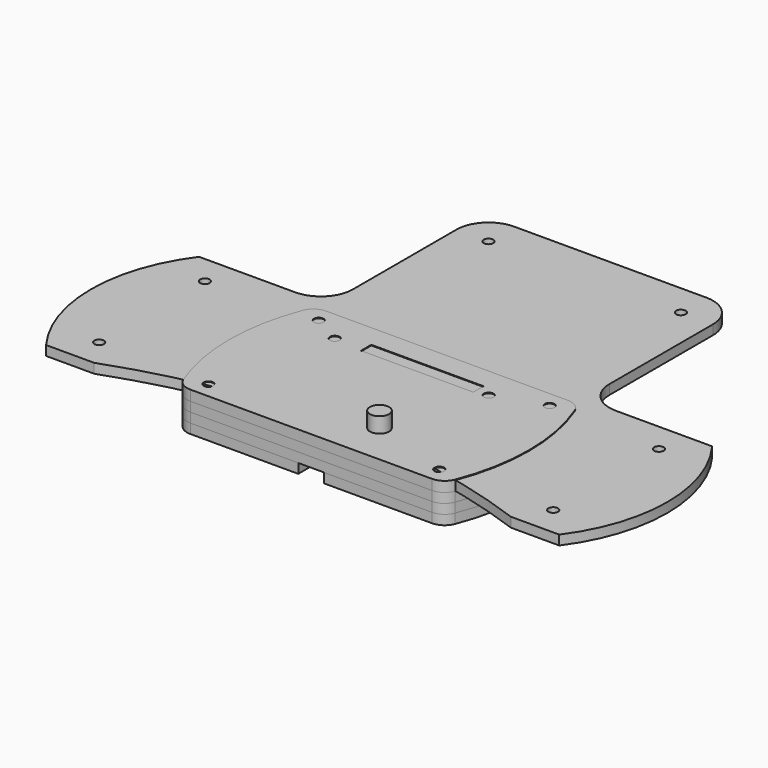
from build123d import *

# Parameters (mm, degrees)
F0_R      = 1.5
F2_DEPTH  = 3
F1_R      = 1.5
F1_R_2    = 13.5
F1_R_3    = 3
F1_W      = 35
F1_H      = 4
F3_DEPTH  = 3
F4_R      = 1.5
F5_DEPTH  = 3
F6_R      = 1
F7_DEPTH  = 3
F8_R      = 3
F9_DEPTH  = 5
F10_DEPTH = 3.2
F4_W      = 8
F4_H      = 7
F11_DEPTH = 3
F5_FACE_R = 1.5


with BuildPart() as f2:
    # F0 (on Top) → F2 (new body)
    with BuildSketch(Plane.XY):
        with BuildLine():
            Line((64.9980898542, -29.8131414131), (80.0411657598, -29.8131414131))
            ThreePointArc((80.0411657598, -29.8131414131), (89.9017014001, 0), (80.0411657598, 29.8131414131))
            Line((80.0411657598, 29.8131414131), (50, 29.8131414131))
            ThreePointArc((50, 29.8131414131), (42.9289321881, 32.7420736012), (40, 39.8131414131))
            Line((40, 39.8131414131), (40, 80.1868585869))
            ThreePointArc((40, 80.1868585869), (37.0710678119, 87.2579263988), (30, 90.1868585869))
            Line((30, 90.1868585869), (-30, 90.1868585869))
            ThreePointArc((-30, 90.1868585869), (-37.0710678119, 87.2579263988), (-40, 80.1868585869))
            Line((-40, 80.1868585869), (-40, 39.8131414131))
            ThreePointArc((-40, 39.8131414131), (-42.9289321881, 32.7420736012), (-50, 29.8131414131))
            Line((-50, 29.8131414131), (-79.9980898542, 29.8131414131))
            ThreePointArc((-79.9980898542, 29.8131414131), (-89.8605356655, 0.0006317704), (-80.0019101458, -29.8131414131))
            Line((-80.0019101458, -29.8131414131), (-65.0019101458, -29.8131414131))
            ThreePointArc((-65.0019101458, -29.8131414131), (-0.0019101458, -18.3488521267), (64.9980898542, -29.8131414131))
        make_face()
        with Locations((-70.8030402511, -20.6298897034)):
            Circle(F0_R, mode=Mode.SUBTRACT)
        with Locations((-0.0019101458, -13.3488521267)):
            Circle(F0_R, mode=Mode.SUBTRACT)
        with Locations((-70.8057016988, 20.6207532577)):
            Circle(F0_R, mode=Mode.SUBTRACT)
        with Locations((70.8083619675, -20.6116164686)):
            Circle(F0_R, mode=Mode.SUBTRACT)
        with Locations((70.8057016988, 20.6207532577)):
            Circle(F0_R, mode=Mode.SUBTRACT)
        with Locations((-30, 80.1868585869)):
            Circle(F0_R, mode=Mode.SUBTRACT)
        with Locations((30, 80.1868585869)):
            Circle(F0_R, mode=Mode.SUBTRACT)
    extrude(amount=F2_DEPTH)


with BuildPart() as f3:
    # F1 (on Top) → F3 (new body)
    with BuildSketch(Plane.XY):
        with BuildLine():
            ThreePointArc((42.3419063366, 23.3182777927), (40.5045767463, 25.6286431769), (37.6842389087, 26.5))
            Line((37.6842389087, 26.5), (-37.6842389087, 26.5))
            ThreePointArc((-37.6842389087, 26.5), (-40.5045767463, 25.6286431769), (-42.3419063366, 23.3182777927))
            ThreePointArc((-42.3419063366, 23.3182777927), (-46.7321079036, 0), (-42.3419063366, -23.3182777927))
            ThreePointArc((-42.3419063366, -23.3182777927), (-40.5045767463, -25.6286431769), (-37.6842389087, -26.5))
            Line((-37.6842389087, -26.5), (37.6842389087, -26.5))
            ThreePointArc((37.6842389087, -26.5), (40.5045767463, -25.6286431769), (42.3419063366, -23.3182777927))
            ThreePointArc((42.3419063366, -23.3182777927), (46.7321079036, 0), (42.3419063366, 23.3182777927))
        make_face()
        with Locations((-36, -21.5)):
            Circle(F1_R, mode=Mode.SUBTRACT)
        with Locations((-17.59, -5.99)):
            Circle(F1_R_2, mode=Mode.SUBTRACT)
        with Locations((10.9859009874, -13.5525093543)):
            Circle(F1_R_3, mode=Mode.SUBTRACT)
        with Locations((36, -21.5)):
            Circle(F1_R, mode=Mode.SUBTRACT)
        with Locations((4.8359009874, -7.4025093543)):
            Circle(F1_R_3, mode=Mode.SUBTRACT)
        with Locations((17.1359009874, -7.4025093543)):
            Circle(F1_R_3, mode=Mode.SUBTRACT)
        with Locations((10.9859009874, -1.2525093543)):
            Circle(F1_R_3, mode=Mode.SUBTRACT)
        with Locations((25.228589891, -7.4025093543)):
            Circle(F1_R_3, mode=Mode.SUBTRACT)
        with Locations((-27, 16.5)):
            Circle(F1_R, mode=Mode.SUBTRACT)
        with Locations((-36, 21.5)):
            Circle(F1_R, mode=Mode.SUBTRACT)
        with Locations((-0.5, 17.4855577275)):
            Rectangle(F1_W, F1_H, mode=Mode.SUBTRACT)
        with Locations((21, 16.5)):
            Circle(F1_R, mode=Mode.SUBTRACT)
        with Locations((36, 21.5)):
            Circle(F1_R, mode=Mode.SUBTRACT)
    extrude(amount=-F3_DEPTH)


with BuildPart() as f5:
    # F4 (on face) → F5 (new body)
    with BuildSketch(Plane(origin=(0, 0, -3), x_dir=(1, 0, 0), z_dir=(0, 0, -1))):
        with BuildLine():
            ThreePointArc((-42.3419063366, -23.3182777927), (-40.5045767463, -25.6286431769), (-37.6842389087, -26.5))
            Line((-37.6842389087, -26.5), (37.6842389087, -26.5))
            ThreePointArc((37.6842389087, -26.5), (40.5045767463, -25.6286431769), (42.3419063366, -23.3182777927))
            ThreePointArc((42.3419063366, -23.3182777927), (46.7321079036, 0), (42.3419063366, 23.3182777927))
            ThreePointArc((42.3419063366, 23.3182777927), (40.5045767463, 25.6286431769), (37.6842389087, 26.5))
            Line((37.6842389087, 26.5), (4, 26.5))
            Line((4, 26.5), (4, 19.5))
            Line((4, 19.5), (32.6745901926, 19.5))
            ThreePointArc((32.6745901926, 19.5), (35.6783500991, 18.4971773071), (37.4772145662, 15.8909705698))
            ThreePointArc((37.4772145662, 15.8909705698), (39.7321079036, 0), (37.4772145662, -15.8909705698))
            ThreePointArc((37.4772145662, -15.8909705698), (35.6783500991, -18.4971773071), (32.6745901926, -19.5))
            Line((32.6745901926, -19.5), (-32.6745901926, -19.5))
            ThreePointArc((-32.6745901926, -19.5), (-35.6783500991, -18.4971773071), (-37.4772145662, -15.8909705698))
            ThreePointArc((-37.4772145662, -15.8909705698), (-39.7321079036, 0), (-37.4772145662, 15.8909705698))
            ThreePointArc((-37.4772145662, 15.8909705698), (-35.6783500991, 18.4971773071), (-32.6745901926, 19.5))
            Line((-32.6745901926, 19.5), (-4, 19.5))
            Line((-4, 19.5), (-4, 26.5))
            Line((-4, 26.5), (-37.6842389087, 26.5))
            ThreePointArc((-37.6842389087, 26.5), (-40.5045767463, 25.6286431769), (-42.3419063366, 23.3182777927))
            ThreePointArc((-42.3419063366, 23.3182777927), (-46.7321079036, 0), (-42.3419063366, -23.3182777927))
        make_face()
        with Locations((-36, -21.5)):
            Circle(F4_R, mode=Mode.SUBTRACT)
        with Locations((36, -21.5)):
            Circle(F4_R, mode=Mode.SUBTRACT)
        with Locations((-36, 21.5)):
            Circle(F4_R, mode=Mode.SUBTRACT)
        with Locations((36, 21.5)):
            Circle(F4_R, mode=Mode.SUBTRACT)
    extrude(amount=F5_DEPTH)


with BuildPart() as f7:
    # F6 (on face) → F7 (new body)
    with BuildSketch(Plane.XY):
        with BuildLine():
            Line((11.9859009874, -6.79401664), (11.9859009874, -4.080936479))
            ThreePointArc((11.9859009874, -4.080936479), (10.9859009874, 1.7474906457), (9.9859009874, -4.080936479))
            Line((9.9859009874, -4.080936479), (9.9859009874, -6.79401664))
            Line((9.9859009874, -6.79401664), (8.7716779385, -6.79401664))
            ThreePointArc((8.7716779385, -6.79401664), (0.8533636565, -7.4025093543), (8.7716779385, -8.0110020686))
            Line((8.7716779385, -8.0110020686), (9.9859009874, -8.0110020686))
            Line((9.9859009874, -8.0110020686), (9.9859009874, -10.7240822295))
            ThreePointArc((9.9859009874, -10.7240822295), (10.9859009874, -16.5525093543), (11.9859009874, -10.7240822295))
            Line((11.9859009874, -10.7240822295), (11.9859009874, -8.0110020686))
            Line((11.9859009874, -8.0110020686), (15.4148236891, -8.0110020686))
            ThreePointArc((15.4148236891, -8.0110020686), (16.9174619366, -9.2148710266), (18.6631110091, -8.4025093543))
            Line((18.6631110091, -8.4025093543), (21.9029071741, -8.4025093543))
            ThreePointArc((21.9029071741, -8.4025093543), (28.7013647949, -7.4025093543), (21.9029071741, -6.4025093543))
            Line((21.9029071741, -6.4025093543), (18.6631110091, -6.4025093543))
            ThreePointArc((18.6631110091, -6.4025093543), (16.9174619366, -5.5901476819), (15.4148236891, -6.79401664))
            Line((15.4148236891, -6.79401664), (11.9859009874, -6.79401664))
        make_face()
        with Locations((10.9859009874, -13.5525093543)):
            Circle(F6_R, mode=Mode.SUBTRACT)
        with Locations((4.8359009874, -7.4025093543)):
            Circle(F6_R, mode=Mode.SUBTRACT)
        with Locations((10.9859009874, -1.2525093543)):
            Circle(F6_R, mode=Mode.SUBTRACT)
        with Locations((17.1359009874, -7.4025093543)):
            Circle(F6_R, mode=Mode.SUBTRACT)
        with Locations((25.228589891, -7.4025093543)):
            Circle(F6_R, mode=Mode.SUBTRACT)
    extrude(amount=F7_DEPTH)


with BuildPart() as f9:
    # F8 (on face) → F9 (new body)
    with BuildSketch(Plane.XY.offset(3)):
        with Locations((10.9859009874, -13.5525093543)):
            Circle(F8_R)
    extrude(amount=F9_DEPTH)


with BuildPart() as f10:
    # F1 (on Top) → F10 (new body)
    with BuildSketch(Plane.XY):
        with BuildLine():
            ThreePointArc((42.3419063366, 23.3182777927), (40.5045767463, 25.6286431769), (37.6842389087, 26.5))
            Line((37.6842389087, 26.5), (-37.6842389087, 26.5))
            ThreePointArc((-37.6842389087, 26.5), (-40.5045767463, 25.6286431769), (-42.3419063366, 23.3182777927))
            ThreePointArc((-42.3419063366, 23.3182777927), (-46.7321079036, 0), (-42.3419063366, -23.3182777927))
            ThreePointArc((-42.3419063366, -23.3182777927), (-40.5045767463, -25.6286431769), (-37.6842389087, -26.5))
            Line((-37.6842389087, -26.5), (37.6842389087, -26.5))
            ThreePointArc((37.6842389087, -26.5), (40.5045767463, -25.6286431769), (42.3419063366, -23.3182777927))
            ThreePointArc((42.3419063366, -23.3182777927), (46.7321079036, 0), (42.3419063366, 23.3182777927))
        make_face()
        with Locations((-36, -21.5)):
            Circle(F1_R, mode=Mode.SUBTRACT)
        with Locations((-17.59, -5.99)):
            Circle(F1_R_2, mode=Mode.SUBTRACT)
        with Locations((10.9859009874, -13.5525093543)):
            Circle(F1_R_3, mode=Mode.SUBTRACT)
        with Locations((36, -21.5)):
            Circle(F1_R, mode=Mode.SUBTRACT)
        with Locations((4.8359009874, -7.4025093543)):
            Circle(F1_R_3, mode=Mode.SUBTRACT)
        with Locations((17.1359009874, -7.4025093543)):
            Circle(F1_R_3, mode=Mode.SUBTRACT)
        with Locations((10.9859009874, -1.2525093543)):
            Circle(F1_R_3, mode=Mode.SUBTRACT)
        with Locations((25.228589891, -7.4025093543)):
            Circle(F1_R_3, mode=Mode.SUBTRACT)
        with Locations((-27, 16.5)):
            Circle(F1_R, mode=Mode.SUBTRACT)
        with Locations((-36, 21.5)):
            Circle(F1_R, mode=Mode.SUBTRACT)
        with Locations((-0.5, 17.4855577275)):
            Rectangle(F1_W, F1_H, mode=Mode.SUBTRACT)
        with Locations((21, 16.5)):
            Circle(F1_R, mode=Mode.SUBTRACT)
        with Locations((36, 21.5)):
            Circle(F1_R, mode=Mode.SUBTRACT)
        with Locations((-17.59, -5.99)):
            Circle(F1_R_2)
        with Locations((4.8359009874, -7.4025093543)):
            Circle(F1_R_3)
        with Locations((10.9859009874, -1.2525093543)):
            Circle(F1_R_3)
        with Locations((17.1359009874, -7.4025093543)):
            Circle(F1_R_3)
        with Locations((10.9859009874, -13.5525093543)):
            Circle(F1_R_3)
        with Locations((25.228589891, -7.4025093543)):
            Circle(F1_R_3)
    extrude(amount=F10_DEPTH)


with BuildPart() as f11:
    # F4 (on face) → F11 (new body)
    with BuildSketch(Plane(origin=(0, 0, -3), x_dir=(1, 0, 0), z_dir=(0, 0, -1))):
        with BuildLine():
            ThreePointArc((-42.3419063366, -23.3182777927), (-40.5045767463, -25.6286431769), (-37.6842389087, -26.5))
            Line((-37.6842389087, -26.5), (37.6842389087, -26.5))
            ThreePointArc((37.6842389087, -26.5), (40.5045767463, -25.6286431769), (42.3419063366, -23.3182777927))
            ThreePointArc((42.3419063366, -23.3182777927), (46.7321079036, 0), (42.3419063366, 23.3182777927))
            ThreePointArc((42.3419063366, 23.3182777927), (40.5045767463, 25.6286431769), (37.6842389087, 26.5))
            Line((37.6842389087, 26.5), (4, 26.5))
            Line((4, 26.5), (4, 19.5))
            Line((4, 19.5), (32.6745901926, 19.5))
            ThreePointArc((32.6745901926, 19.5), (35.6783500991, 18.4971773071), (37.4772145662, 15.8909705698))
            ThreePointArc((37.4772145662, 15.8909705698), (39.7321079036, 0), (37.4772145662, -15.8909705698))
            ThreePointArc((37.4772145662, -15.8909705698), (35.6783500991, -18.4971773071), (32.6745901926, -19.5))
            Line((32.6745901926, -19.5), (-32.6745901926, -19.5))
            ThreePointArc((-32.6745901926, -19.5), (-35.6783500991, -18.4971773071), (-37.4772145662, -15.8909705698))
            ThreePointArc((-37.4772145662, -15.8909705698), (-39.7321079036, 0), (-37.4772145662, 15.8909705698))
            ThreePointArc((-37.4772145662, 15.8909705698), (-35.6783500991, 18.4971773071), (-32.6745901926, 19.5))
            Line((-32.6745901926, 19.5), (-4, 19.5))
            Line((-4, 19.5), (-4, 26.5))
            Line((-4, 26.5), (-37.6842389087, 26.5))
            ThreePointArc((-37.6842389087, 26.5), (-40.5045767463, 25.6286431769), (-42.3419063366, 23.3182777927))
            ThreePointArc((-42.3419063366, 23.3182777927), (-46.7321079036, 0), (-42.3419063366, -23.3182777927))
        make_face()
        with Locations((-36, -21.5)):
            Circle(F4_R, mode=Mode.SUBTRACT)
        with Locations((36, -21.5)):
            Circle(F4_R, mode=Mode.SUBTRACT)
        with Locations((-36, 21.5)):
            Circle(F4_R, mode=Mode.SUBTRACT)
        with Locations((36, 21.5)):
            Circle(F4_R, mode=Mode.SUBTRACT)
        with Locations((0, 23)):
            Rectangle(F4_W, F4_H)
    extrude(amount=F11_DEPTH)


with BuildPart() as f11b:
    # F5_face (on face) → F11, piece 2 (new body)
    with BuildSketch(Plane(origin=(0, 0.7751153239, -6), x_dir=(1, 0, 0), z_dir=(0, 0, -1))):
        with BuildLine():
            ThreePointArc((-42.3419063366, -22.5431624688), (-40.5045767463, -24.8535278529), (-37.6842389087, -25.7248846761))
            Line((-37.6842389087, -25.7248846761), (37.6842389087, -25.7248846761))
            ThreePointArc((37.6842389087, -25.7248846761), (40.5045767463, -24.8535278529), (42.3419063366, -22.5431624688))
            ThreePointArc((42.3419063366, -22.5431624688), (46.7321079036, 0.7751153239), (42.3419063366, 24.0933931167))
            ThreePointArc((42.3419063366, 24.0933931167), (40.5045767463, 26.4037585008), (37.6842389087, 27.2751153239))
            Line((37.6842389087, 27.2751153239), (4, 27.2751153239))
            Line((4, 27.2751153239), (4, 20.2751153239))
            Line((4, 20.2751153239), (32.6745901926, 20.2751153239))
            ThreePointArc((32.6745901926, 20.2751153239), (35.6783500991, 19.2722926311), (37.4772145662, 16.6660858938))
            ThreePointArc((37.4772145662, 16.6660858938), (39.7321079036, 0.7751153239), (37.4772145662, -15.1158552459))
            ThreePointArc((37.4772145662, -15.1158552459), (35.6783500991, -17.7220619832), (32.6745901926, -18.7248846761))
            Line((32.6745901926, -18.7248846761), (-32.6745901926, -18.7248846761))
            ThreePointArc((-32.6745901926, -18.7248846761), (-35.6783500991, -17.7220619832), (-37.4772145662, -15.1158552459))
            ThreePointArc((-37.4772145662, -15.1158552459), (-39.7321079036, 0.7751153239), (-37.4772145662, 16.6660858938))
            ThreePointArc((-37.4772145662, 16.6660858938), (-35.6783500991, 19.2722926311), (-32.6745901926, 20.2751153239))
            Line((-32.6745901926, 20.2751153239), (-4, 20.2751153239))
            Line((-4, 20.2751153239), (-4, 27.2751153239))
            Line((-4, 27.2751153239), (-37.6842389087, 27.2751153239))
            ThreePointArc((-37.6842389087, 27.2751153239), (-40.5045767463, 26.4037585008), (-42.3419063366, 24.0933931167))
            ThreePointArc((-42.3419063366, 24.0933931167), (-46.7321079036, 0.7751153239), (-42.3419063366, -22.5431624688))
        make_face()
        with Locations((-36, -20.7248846761)):
            Circle(F5_FACE_R, mode=Mode.SUBTRACT)
        with Locations((36, -20.7248846761)):
            Circle(F5_FACE_R, mode=Mode.SUBTRACT)
        with Locations((-36, 22.2751153239)):
            Circle(F5_FACE_R, mode=Mode.SUBTRACT)
        with Locations((36, 22.2751153239)):
            Circle(F5_FACE_R, mode=Mode.SUBTRACT)
    extrude(amount=F11_DEPTH)


solid = Compound([f2.part, f3.part, f5.part, f7.part, f9.part, f10.part, f11.part, f11b.part])
